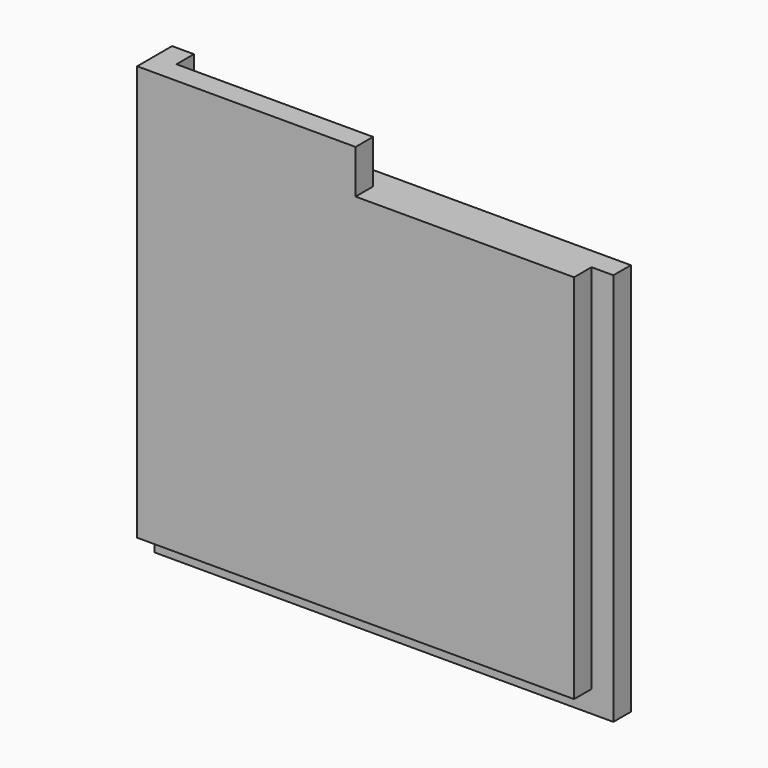
from build123d import *

# Parameters (mm, degrees)
F0_W      = 105
F0_H      = 95
F1_DEPTH  = 5
F2_W      = 50
F2_H      = 5
F3_DEPTH  = 5
F5_DEPTH  = 5
F6_W      = 5
F6_H      = 5
F7_DEPTH  = 45
F8_W      = 10
F8_H      = 5
F9_DEPTH  = 5
F9_FACE_W = 5
F9_FACE_H = 5
F10_DEPTH = 90


with BuildPart() as f1:
    # F0 (on Front) → F1 (new body)
    with BuildSketch(Plane.XZ):
        Rectangle(F0_W, F0_H)
        Rectangle(F0_W, F0_H)
    extrude(amount=F1_DEPTH)

    # F2 (on face) → F3 (join)
    with BuildSketch(Plane.XY.offset(47.5)):
        with Locations((-27.5, -2.5)):
            Rectangle(F2_W, F2_H)
    extrude(amount=F3_DEPTH)

    # F4 (on face) → F5 (join)
    with BuildSketch(Plane.XZ.offset(5)):
        Polygon((-2.5, 42.5), (-2.5, 47.5), (-2.5, 52.5), (-52.5, 52.5), (-52.5, -42.5), (47.5, -42.5), (47.5, 42.5), align=None)
    extrude(amount=F5_DEPTH)

    # F6 (on face) → F7 (cut)
    with BuildSketch(Plane.YZ.offset(-2.5)):
        with Locations((-2.5, 50)):
            Rectangle(F6_W, F6_H)
    extrude(amount=-F7_DEPTH, mode=Mode.SUBTRACT)

    # F8 (on face) → F9 (cut)
    with BuildSketch(Plane.XY.offset(47.5)):
        with Locations((-42.5, -2.5)):
            Rectangle(F8_W, F8_H)
    extrude(amount=-F9_DEPTH, mode=Mode.SUBTRACT)

    # F9_face (on face) → F10 (cut)
    with BuildSketch(Plane(origin=(-37.5, -2.5, 45), x_dir=(0, -1, 0), z_dir=(-1, 0, 0))):
        Rectangle(F9_FACE_W, F9_FACE_H)
    extrude(amount=-F10_DEPTH, mode=Mode.SUBTRACT)


solid = f1.part
